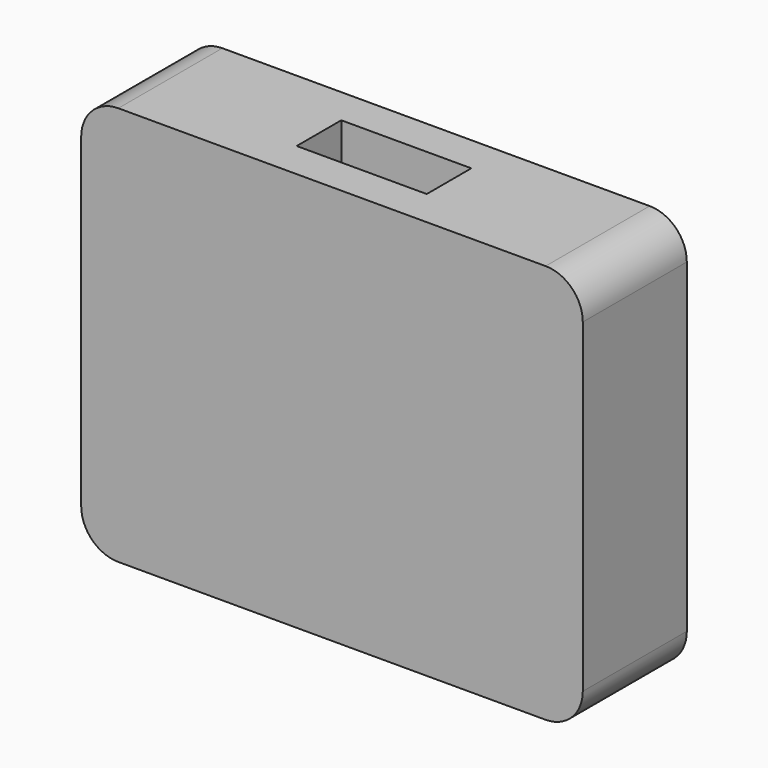
from build123d import *

# Parameters (mm, degrees)
F1_DEPTH = 2
F3_DEPTH = 3
F5_DEPTH = 2


with BuildPart() as f1:
    # F0 (on Front) → F1 (new body)
    with BuildSketch(Plane.XZ):
        with BuildLine():
            Line((-25, 0), (-2, 0))
            ThreePointArc((-2, 0), (-0.585786, 0.585786), (0, 2))
            Line((0, 2), (0, 19.5))
            ThreePointArc((0, 19.5), (-0.585786, 20.914214), (-2, 21.5))
            Line((-2, 21.5), (-25, 21.5))
            ThreePointArc((-25, 21.5), (-26.414214, 20.914214), (-27, 19.5))
            Line((-27, 19.5), (-27, 2))
            ThreePointArc((-27, 2), (-26.414214, 0.585786), (-25, 0))
        make_face()
    extrude(amount=F1_DEPTH)

    # F2 (on face) → F3 (join)
    with BuildSketch(Plane.XZ.offset(2)):
        with BuildLine():
            Line((-25, 0), (-17, 0))
            Line((-17, 0), (-17, 21.5))
            Line((-17, 21.5), (-25, 21.5))
            ThreePointArc((-25, 21.5), (-26.414214, 20.914214), (-27, 19.5))
            Line((-27, 19.5), (-27, 2))
            ThreePointArc((-27, 2), (-26.414214, 0.585786), (-25, 0))
        make_face()
        with BuildLine():
            Line((-10, 0), (-2, 0))
            ThreePointArc((-2, 0), (-0.585786, 0.585786), (0, 2))
            Line((0, 2), (0, 19.5))
            ThreePointArc((0, 19.5), (-0.585786, 20.914214), (-2, 21.5))
            Line((-2, 21.5), (-10, 21.5))
            Line((-10, 21.5), (-10, 0))
        make_face()
    extrude(amount=F3_DEPTH)

    # F4 (on face) → F5 (join)
    with BuildSketch(Plane.XZ.offset(5)):
        with BuildLine():
            Line((-17, 21.5), (-25, 21.5))
            ThreePointArc((-25, 21.5), (-26.414214, 20.914214), (-27, 19.5))
            Line((-27, 19.5), (-27, 2))
            ThreePointArc((-27, 2), (-26.414214, 0.585786), (-25, 0))
            Line((-25, 0), (-17, 0))
            Line((-17, 0), (-17, 21.5))
        make_face()
        with BuildLine():
            Line((-2, 21.5), (-17, 21.5))
            Line((-17, 21.5), (-17, 0))
            Line((-17, 0), (-2, 0))
            ThreePointArc((-2, 0), (-0.585786, 0.585786), (0, 2))
            Line((0, 2), (0, 19.5))
            ThreePointArc((0, 19.5), (-0.585786, 20.914214), (-2, 21.5))
        make_face()
    extrude(amount=F5_DEPTH)


solid = f1.part
